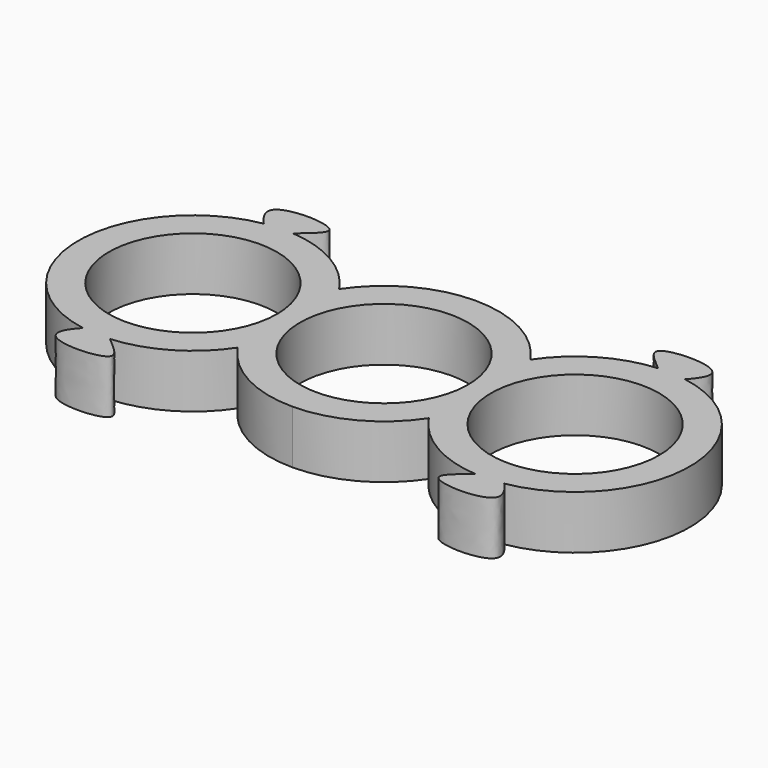
from build123d import *

# Parameters (mm, degrees)
F0_R     = 11
F1_DEPTH = 7


with BuildPart() as f1:
    # F0 (on Top) → F1 (new body)
    with BuildSketch(Plane.XY):
        with BuildLine():
            ThreePointArc((-23.8757276871, -14.9578077193), (-17.4161416751, -12.9416031815), (-12.5, -8.2915619759))
            ThreePointArc((-12.5, -8.2915619759), (-7.0931858273, -13.2169101843), (0, -15))
            ThreePointArc((0, -15), (7.0931858273, -13.2169101843), (12.5, -8.2915619759))
            ThreePointArc((12.5, -8.2915619759), (17.4161416751, -12.9416031815), (23.8757276871, -14.9578077193))
            add(Edge.make_bspline(
                [(23.8757276871, -14.9578077193), (24.2570080292, -14.6032809406), (25.1640363774, -13.6251169711), (24.7820959306, -12.8673838478), (25.0806100667, -12.9085443914)],
                knots=[0.8098455456, 0.8098455456, 0.8098455456, 0.8098455456, 0.8769594493, 1, 1, 1, 1], degree=3))
            add(Edge.make_bspline(
                [(25.0806100667, -12.9085443914), (25.4413265248, -12.958281686), (26.5987837053, -13.7840330239), (27.5517572658, -14.7813576797)],
                knots=[0, 0, 0, 0, 0.1486788943, 0.1486788943, 0.1486788943, 0.1486788943], degree=3))
            ThreePointArc((27.5517572658, -14.7813576797), (40, 0), (27.5517572658, 14.7813576797))
            add(Edge.make_bspline(
                [(25.0806100667, 12.9085443914), (25.4413265248, 12.958281686), (26.5987837053, 13.7840330239), (27.5517572658, 14.7813576797)],
                knots=[0, 0, 0, 0, 0.1486788943, 0.1486788943, 0.1486788943, 0.1486788943], degree=3))
            add(Edge.make_bspline(
                [(23.8757276871, 14.9578077193), (24.2570080292, 14.6032809406), (25.1640363774, 13.6251169711), (24.7820959306, 12.8673838478), (25.0806100667, 12.9085443914)],
                knots=[0.8098455456, 0.8098455456, 0.8098455456, 0.8098455456, 0.8769594493, 1, 1, 1, 1], degree=3))
            ThreePointArc((23.8757276871, 14.9578077193), (17.4161416751, 12.9416031815), (12.5, 8.2915619759))
            ThreePointArc((12.5, 8.2915619759), (7.0931858273, 13.2169101843), (0, 15))
            ThreePointArc((0, 15), (-7.0931858273, 13.2169101843), (-12.5, 8.2915619759))
            ThreePointArc((-12.5, 8.2915619759), (-17.4161416751, 12.9416031815), (-23.8757276871, 14.9578077193))
            add(Edge.make_bspline(
                [(-23.8757276871, 14.9578077193), (-24.2570080292, 14.6032809406), (-25.1640363774, 13.6251169711), (-24.7820959306, 12.8673838478), (-25.0806100667, 12.9085443914)],
                knots=[0.8098455456, 0.8098455456, 0.8098455456, 0.8098455456, 0.8769594493, 1, 1, 1, 1], degree=3))
            add(Edge.make_bspline(
                [(-25.0806100667, 12.9085443914), (-25.4413265248, 12.958281686), (-26.5987837053, 13.7840330239), (-27.5517572658, 14.7813576797)],
                knots=[0, 0, 0, 0, 0.1486788943, 0.1486788943, 0.1486788943, 0.1486788943], degree=3))
            ThreePointArc((-27.5517572658, 14.7813576797), (-40, 0), (-27.5517572658, -14.7813576797))
            add(Edge.make_bspline(
                [(-25.0806100667, -12.9085443914), (-25.4413265248, -12.958281686), (-26.5987837053, -13.7840330239), (-27.5517572658, -14.7813576797)],
                knots=[0, 0, 0, 0, 0.1486788943, 0.1486788943, 0.1486788943, 0.1486788943], degree=3))
            add(Edge.make_bspline(
                [(-23.8757276871, -14.9578077193), (-24.2570080292, -14.6032809406), (-25.1640363774, -13.6251169711), (-24.7820959306, -12.8673838478), (-25.0806100667, -12.9085443914)],
                knots=[0.8098455456, 0.8098455456, 0.8098455456, 0.8098455456, 0.8769594493, 1, 1, 1, 1], degree=3))
        make_face()
        with Locations((-25, 0)):
            Circle(F0_R, mode=Mode.SUBTRACT)
        with BuildLine():
            ThreePointArc((0, -11), (-11, 0), (0, 11))
            ThreePointArc((0, 11), (11, 0), (0, -11))
        make_face(mode=Mode.SUBTRACT)
        with Locations((25, 0)):
            Circle(F0_R, mode=Mode.SUBTRACT)
        with BuildLine():
            add(Edge.make_bspline(
                [(-27.5517572658, -14.7813576797), (-28.4494579055, -15.7208370301), (-30.8073036541, -19.3147307515), (-18.3626619251, -18.9827181039), (-22.7388649488, -16.0148994175), (-23.8757276871, -14.9578077193)],
                knots=[0.1486788943, 0.1486788943, 0.1486788943, 0.1486788943, 0.2887343418, 0.60973217, 0.8098455456, 0.8098455456, 0.8098455456, 0.8098455456], degree=3))
            add(Edge.make_bspline(
                [(-23.8757276871, -14.9578077193), (-24.2570080292, -14.6032809406), (-25.1640363774, -13.6251169711), (-24.7820959306, -12.8673838478), (-25.0806100667, -12.9085443914)],
                knots=[0.8098455456, 0.8098455456, 0.8098455456, 0.8098455456, 0.8769594493, 1, 1, 1, 1], degree=3))
            add(Edge.make_bspline(
                [(-25.0806100667, -12.9085443914), (-25.4413265248, -12.958281686), (-26.5987837053, -13.7840330239), (-27.5517572658, -14.7813576797)],
                knots=[0, 0, 0, 0, 0.1486788943, 0.1486788943, 0.1486788943, 0.1486788943], degree=3))
        make_face()
        with BuildLine():
            add(Edge.make_bspline(
                [(23.8757276871, -14.9578077193), (24.2570080292, -14.6032809406), (25.1640363774, -13.6251169711), (24.7820959306, -12.8673838478), (25.0806100667, -12.9085443914)],
                knots=[0.8098455456, 0.8098455456, 0.8098455456, 0.8098455456, 0.8769594493, 1, 1, 1, 1], degree=3))
            add(Edge.make_bspline(
                [(27.5517572658, -14.7813576797), (28.4494579055, -15.7208370301), (30.8073036541, -19.3147307515), (18.3626619251, -18.9827181039), (22.7388649488, -16.0148994175), (23.8757276871, -14.9578077193)],
                knots=[0.1486788943, 0.1486788943, 0.1486788943, 0.1486788943, 0.2887343418, 0.60973217, 0.8098455456, 0.8098455456, 0.8098455456, 0.8098455456], degree=3))
            add(Edge.make_bspline(
                [(25.0806100667, -12.9085443914), (25.4413265248, -12.958281686), (26.5987837053, -13.7840330239), (27.5517572658, -14.7813576797)],
                knots=[0, 0, 0, 0, 0.1486788943, 0.1486788943, 0.1486788943, 0.1486788943], degree=3))
        make_face()
        with BuildLine():
            add(Edge.make_bspline(
                [(-27.5517572658, 14.7813576797), (-28.4494579055, 15.7208370301), (-30.8073036541, 19.3147307515), (-18.3626619251, 18.9827181039), (-22.7388649488, 16.0148994175), (-23.8757276871, 14.9578077193)],
                knots=[0.1486788943, 0.1486788943, 0.1486788943, 0.1486788943, 0.2887343418, 0.60973217, 0.8098455456, 0.8098455456, 0.8098455456, 0.8098455456], degree=3))
            add(Edge.make_bspline(
                [(-25.0806100667, 12.9085443914), (-25.4413265248, 12.958281686), (-26.5987837053, 13.7840330239), (-27.5517572658, 14.7813576797)],
                knots=[0, 0, 0, 0, 0.1486788943, 0.1486788943, 0.1486788943, 0.1486788943], degree=3))
            add(Edge.make_bspline(
                [(-23.8757276871, 14.9578077193), (-24.2570080292, 14.6032809406), (-25.1640363774, 13.6251169711), (-24.7820959306, 12.8673838478), (-25.0806100667, 12.9085443914)],
                knots=[0.8098455456, 0.8098455456, 0.8098455456, 0.8098455456, 0.8769594493, 1, 1, 1, 1], degree=3))
        make_face()
        with BuildLine():
            add(Edge.make_bspline(
                [(25.0806100667, 12.9085443914), (25.4413265248, 12.958281686), (26.5987837053, 13.7840330239), (27.5517572658, 14.7813576797)],
                knots=[0, 0, 0, 0, 0.1486788943, 0.1486788943, 0.1486788943, 0.1486788943], degree=3))
            add(Edge.make_bspline(
                [(27.5517572658, 14.7813576797), (28.4494579055, 15.7208370301), (30.8073036541, 19.3147307515), (18.3626619251, 18.9827181039), (22.7388649488, 16.0148994175), (23.8757276871, 14.9578077193)],
                knots=[0.1486788943, 0.1486788943, 0.1486788943, 0.1486788943, 0.2887343418, 0.60973217, 0.8098455456, 0.8098455456, 0.8098455456, 0.8098455456], degree=3))
            add(Edge.make_bspline(
                [(23.8757276871, 14.9578077193), (24.2570080292, 14.6032809406), (25.1640363774, 13.6251169711), (24.7820959306, 12.8673838478), (25.0806100667, 12.9085443914)],
                knots=[0.8098455456, 0.8098455456, 0.8098455456, 0.8098455456, 0.8769594493, 1, 1, 1, 1], degree=3))
        make_face()
    extrude(amount=F1_DEPTH)


solid = f1.part
